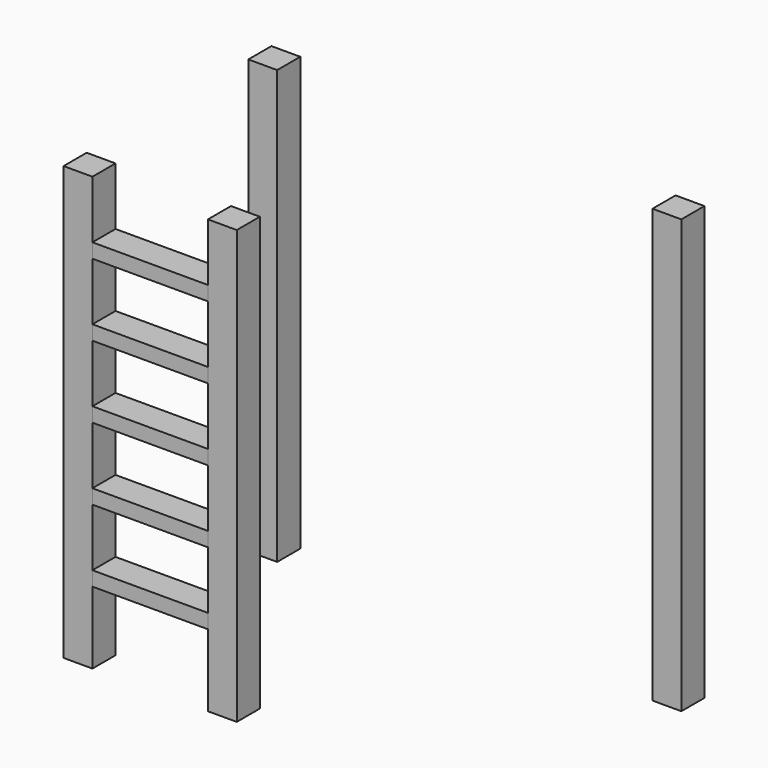
from build123d import *

# Parameters (mm, degrees)
F0_W     = 101.6
F0_H     = 101.6
F1_DEPTH = 1524
F2_W     = 101.6
F2_H     = 101.6
F3_DEPTH = 1524
F4_W     = 101.6
F4_H     = 101.6
F5_DEPTH = 1524
F6_W     = 101.6
F6_H     = 50.8
F7_DEPTH = 406.4
F8_W     = 101.6
F8_H     = 101.6
F9_DEPTH = 1524


with BuildPart() as f1:
    # F0 (on Top) → F1 (new body)
    with BuildSketch(Plane.XY):
        with Locations((-88.756926, 6.02414)):
            Rectangle(F0_W, F0_H)
    extrude(amount=F1_DEPTH)


with BuildPart() as f3:
    # F2 (on face) → F3 (new body)
    with BuildSketch(Plane(origin=(0, 0, 0), x_dir=(1, 0, 0), z_dir=(0, 0, -1))):
        with Locations((-88.756926, 806.77586)):
            Rectangle(F2_W, F2_H)
    extrude(amount=-F3_DEPTH)


with BuildPart() as f5:
    # F4 (on face) → F5 (new body)
    with BuildSketch(Plane(origin=(0, 0, 0), x_dir=(1, 0, 0), z_dir=(0, 0, -1))):
        with Locations((419.243074, 806.77586)):
            Rectangle(F4_W, F4_H)
    extrude(amount=-F5_DEPTH)


with BuildPart() as f7:
    # F6 (on face) → F7 (new body, through all)
    with BuildSketch(Plane.YZ.offset(-37.956926)):
        with Locations((-806.77586, 279.4)):
            Rectangle(F6_W, F6_H)
        with Locations((-806.77586, 533.4)):
            Rectangle(F6_W, F6_H)
        with Locations((-806.77586, 787.4)):
            Rectangle(F6_W, F6_H)
        with Locations((-806.77586, 1041.4)):
            Rectangle(F6_W, F6_H)
        with Locations((-806.77586, 1295.4)):
            Rectangle(F6_W, F6_H)
    extrude(amount=F7_DEPTH)


with BuildPart() as f9:
    # F8 (on Top) → F9 (new body)
    with BuildSketch(Plane.XY):
        with Locations((1333.643074, 6.02414)):
            Rectangle(F8_W, F8_H)
    extrude(amount=F9_DEPTH)


solid = Compound([f1.part, f3.part, f5.part, f7.part, f9.part])
